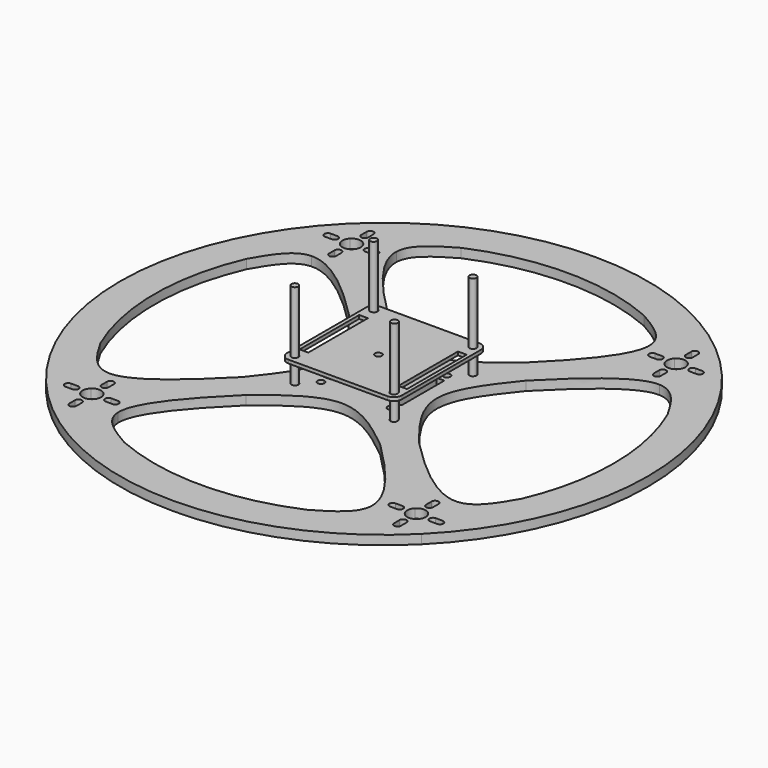
from build123d import *

# Parameters (mm, degrees)
F1_R     = 1.5
F2_DEPTH = 1.5
F4_R     = 1.5
F5_DEPTH = 41.5
F6_DEPTH = 4


with BuildPart() as f2:
    # F1 (on Top) → F2 (new body)
    with BuildSketch(Plane.XY):
        with BuildLine():
            Line((21.5300569844, 24.9755739439), (-21.5408730156, 24.9755739439))
            ThreePointArc((-21.5408730156, 24.9755739439), (-23.9906692077, 23.9608351361), (-25.0054080156, 21.5110389439))
            Line((-25.0054080156, 21.5110389439), (-25.0054080156, -21.5598910561))
            ThreePointArc((-25.0054080156, -21.5598910561), (-23.9906692077, -24.0096872482), (-21.5408730156, -25.0244260561))
            Line((-21.5408730156, -25.0244260561), (21.5300569844, -25.0244260561))
            ThreePointArc((21.5300569844, -25.0244260561), (23.9798531766, -24.0096872482), (24.9945919844, -21.5598910561))
            Line((24.9945919844, -21.5598910561), (24.9945919844, 21.5110389439))
            ThreePointArc((24.9945919844, 21.5110389439), (23.9798531766, 23.9608351361), (21.5300569844, 24.9755739439))
        make_face()
        with BuildLine():
            ThreePointArc((-21.5408730156, 20.0110389439), (-22.6015331873, 22.5716991157), (-20.0408730156, 21.5110389439))
            Line((-20.0408730156, 21.5110389439), (20.0300569844, 21.5110389439))
            ThreePointArc((20.0300569844, 21.5110389439), (21.5300569844, 23.0110389439), (23.0300569844, 21.5110389439))
            ThreePointArc((23.0300569844, 21.5110389439), (22.5907171562, 20.4503787721), (21.5300569844, 20.0110389439))
            Line((21.5300569844, 20.0110389439), (21.5300569844, 15.6918243156))
            Line((21.5300569844, 15.6918243156), (23.4506830457, 15.6918243156))
            Line((23.4506830457, 15.6918243156), (23.4506830457, -16.7748629464))
            Line((23.4506830457, -16.7748629464), (21.5300569844, -16.7748629464))
            Line((21.5300569844, -16.7748629464), (21.5300569844, -20.0598910561))
            ThreePointArc((21.5300569844, -20.0598910561), (22.5907171562, -20.4992308843), (23.0300569844, -21.5598910561))
            ThreePointArc((23.0300569844, -21.5598910561), (21.5300569844, -23.0598910561), (20.0300569844, -21.5598910561))
            Line((20.0300569844, -21.5598910561), (-20.0408730156, -21.5598910561))
            ThreePointArc((-20.0408730156, -21.5598910561), (-22.6015331873, -22.6205512279), (-21.5408730156, -20.0598910561))
            Line((-21.5408730156, -20.0598910561), (-21.5408730156, -16.7748629464))
            Line((-21.5408730156, -16.7748629464), (-23.3591597644, -16.7748629464))
            Line((-23.3591597644, -16.7748629464), (-23.3591597644, 15.6918243156))
            Line((-23.3591597644, 15.6918243156), (-21.5408730156, 15.6918243156))
            Line((-21.5408730156, 15.6918243156), (-21.5408730156, 20.0110389439))
        make_face(mode=Mode.SUBTRACT)
        with BuildLine():
            Line((20.0300569844, 21.5110389439), (-20.0408730156, 21.5110389439))
            ThreePointArc((-20.0408730156, 21.5110389439), (-20.4802128438, 20.4503787721), (-21.5408730156, 20.0110389439))
            Line((-21.5408730156, 20.0110389439), (-21.5408730156, 15.6918243156))
            Line((-21.5408730156, 15.6918243156), (-19.5787929115, 15.6918243156))
            Line((-19.5787929115, 15.6918243156), (-19.5787929115, -16.7748629464))
            Line((-19.5787929115, -16.7748629464), (-21.5408730156, -16.7748629464))
            Line((-21.5408730156, -16.7748629464), (-21.5408730156, -20.0598910561))
            ThreePointArc((-21.5408730156, -20.0598910561), (-20.4802128438, -20.4992308843), (-20.0408730156, -21.5598910561))
            Line((-20.0408730156, -21.5598910561), (20.0300569844, -21.5598910561))
            ThreePointArc((20.0300569844, -21.5598910561), (20.4693968127, -20.4992308843), (21.5300569844, -20.0598910561))
            Line((21.5300569844, -20.0598910561), (21.5300569844, -16.7748629464))
            Line((21.5300569844, -16.7748629464), (19.6703161928, -16.7748629464))
            Line((19.6703161928, -16.7748629464), (19.6703161928, 15.6918243156))
            Line((19.6703161928, 15.6918243156), (21.5300569844, 15.6918243156))
            Line((21.5300569844, 15.6918243156), (21.5300569844, 20.0110389439))
            ThreePointArc((21.5300569844, 20.0110389439), (20.4693968127, 20.4503787721), (20.0300569844, 21.5110389439))
        make_face()
        with Locations((0, -3.0244260561)):
            Circle(F1_R, mode=Mode.SUBTRACT)
    extrude(amount=F2_DEPTH)


with BuildPart() as f2_1:
    # F3: moved
    add(f2.part.moved(Location((0, 0, 13))))


with BuildPart() as f5:
    # F4 (on Top) → F5 (new body)
    with BuildSketch(Plane.XY):
        with Locations((-21.735932678, 21.4739814401)):
            Circle(F4_R)
    extrude(amount=F5_DEPTH)


with BuildPart() as f5b:
    # F4 (on Top) → F5, piece 2 (new body)
    with BuildSketch(Plane.XY):
        with Locations((-21.735932678, -21.3912688196)):
            Circle(F4_R)
    extrude(amount=F5_DEPTH)


with BuildPart() as f5c:
    # F4 (on Top) → F5, piece 3 (new body)
    with BuildSketch(Plane.XY):
        with Locations((21.416042, -21.1045444012)):
            Circle(F4_R)
    extrude(amount=F5_DEPTH)


with BuildPart() as f5d:
    # F4 (on Top) → F5, piece 4 (new body)
    with BuildSketch(Plane.XY):
        with Locations((21.5594042093, 21.4739814401)):
            Circle(F4_R)
    extrude(amount=F5_DEPTH)


with BuildPart() as f6:
    # F0 (on Top) → F6 (new body)
    with BuildSketch(Plane.XY):
        with BuildLine():
            Line((-73.5380386095, 73.5380386095), (-81.3172798365, 81.3172798365))
            ThreePointArc((-81.3172798365, 81.3172798365), (-114.9999980619, -0.0211130356), (-81.2874160139, -81.3471326955))
            Line((-81.2874160139, -81.3471326955), (-73.5099722747, -73.5690948579))
            ThreePointArc((-73.5099722747, -73.5690948579), (-74.6812907728, -70.7012137687), (-73.4535440893, -67.8570325075))
            ThreePointArc((-73.4535440893, -67.8570325075), (-74.6303136147, -66.5606211642), (-75.7842054497, -65.2438058696))
            ThreePointArc((-75.7842054497, -65.2438058696), (-84.7133535769, -53.1380064149), (-91.7256073742, -39.8297997965))
            ThreePointArc((-91.7256073742, -39.8297997965), (-99.9999978313, -0.020826594), (-91.7421897981, 39.7915897024))
            ThreePointArc((-91.7421897981, 39.7915897024), (-84.7354799013, 53.1027159935), (-75.811375, 65.2122336729))
            ThreePointArc((-75.811375, 65.2122336729), (-74.6582647851, 66.5292679899), (-73.482277467, 67.8259161255))
            ThreePointArc((-73.482277467, 67.8259161255), (-74.7097193284, 70.6702673756), (-73.5380386095, 73.5380386095))
        make_face()
        with BuildLine():
            ThreePointArc((-80.9829469495, -72.2427877299), (-82.4829469495, -70.7427877299), (-80.9829469495, -69.2427877299))
            Line((-80.9829469495, -69.2427877299), (-77.9829469495, -69.2427877299))
            ThreePointArc((-77.9829469495, -69.2427877299), (-76.4829469495, -70.7427877299), (-77.9829469495, -72.2427877299))
            Line((-77.9829469495, -72.2427877299), (-80.9829469495, -72.2427877299))
        make_face(mode=Mode.SUBTRACT)
        with BuildLine():
            ThreePointArc((-81.0113709144, 69.2072523125), (-82.5113709144, 70.7072523125), (-81.0113709144, 72.2072523125))
            Line((-81.0113709144, 72.2072523125), (-78.0113709144, 72.2072523125))
            ThreePointArc((-78.0113709144, 72.2072523125), (-76.5113709144, 70.7072523125), (-78.0113709144, 69.2072523125))
            Line((-78.0113709144, 69.2072523125), (-81.0113709144, 69.2072523125))
        make_face(mode=Mode.SUBTRACT)
        with BuildLine():
            ThreePointArc((-81.2874160139, -81.3471326955), (0.0211130356, -114.9999980619), (81.3172798365, -81.3172798365))
            Line((81.3172798365, -81.3172798365), (73.5391085036, -73.5391085036))
            ThreePointArc((73.5391085036, -73.5391085036), (70.6706770747, -74.7104813308), (67.8262482612, -73.4819708963))
            ThreePointArc((67.8262482612, -73.4819708963), (66.5294367156, -74.6581144304), (65.2122336729, -75.811375))
            ThreePointArc((65.2122336729, -75.811375), (53.1027159935, -84.7354799013), (39.7915897024, -91.7421897981))
            ThreePointArc((39.7915897024, -91.7421897981), (0.020826594, -99.9999978313), (-39.7533727045, -91.7587563049))
            ThreePointArc((-39.7533727045, -91.7587563049), (-53.0674163588, -84.7575915243), (-65.1806501618, -75.8385313972))
            ThreePointArc((-65.1806501618, -75.8385313972), (-66.4982498025, -74.6858940711), (-67.7954701129, -73.510368195))
            ThreePointArc((-67.7954701129, -73.510368195), (-70.6403810026, -74.7405157379), (-73.5099722747, -73.5690948579))
            Line((-73.5099722747, -73.5690948579), (-81.2874160139, -81.3471326955))
        make_face()
        with BuildLine():
            ThreePointArc((-72.2336163259, -77.9907269454), (-70.7336163259, -76.4907269454), (-69.2336163259, -77.9907269454))
            Line((-69.2336163259, -77.9907269454), (-69.2336163259, -80.9907269454))
            ThreePointArc((-69.2336163259, -80.9907269454), (-70.7336163259, -82.4907269454), (-72.2336163259, -80.9907269454))
            Line((-72.2336163259, -80.9907269454), (-72.2336163259, -77.9907269454))
        make_face(mode=Mode.SUBTRACT)
        with BuildLine():
            ThreePointArc((69.1585509919, -77.9606813788), (70.6585509919, -76.4606813788), (72.1585509919, -77.9606813788))
            Line((72.1585509919, -77.9606813788), (72.1585509919, -80.9606813788))
            ThreePointArc((72.1585509919, -80.9606813788), (70.6585509919, -82.4606813788), (69.1585509919, -80.9606813788))
            Line((69.1585509919, -80.9606813788), (69.1585509919, -77.9606813788))
        make_face(mode=Mode.SUBTRACT)
        with BuildLine():
            ThreePointArc((-66.681485939, -70.7407269454), (-66.9704171371, -72.2333649953), (-67.7954701129, -73.510368195))
            ThreePointArc((-67.7954701129, -73.510368195), (-66.4982498025, -74.6858940711), (-65.1806501618, -75.8385313972))
            Line((-65.1806501618, -75.8385313972), (-55.1806501618, -75.8385313972))
            add(Edge.make_bspline(
                [(-29.1917316603, -38.6195120691), (-44.1858001594, -53.3963002155), (-55.5362330754, -66.8088616171), (-55.1806501618, -75.8385313972)],
                knots=[0.2016445689, 0.2016445689, 0.2016445689, 0.2016445689, 0.6478294718, 0.6478294718, 0.6478294718, 0.6478294718], degree=3))
            add(Edge.make_bspline(
                [(-7.3745398994, -18.0280054786), (-14.8949972992, -24.9847181031), (-22.4154546991, -31.9414307276), (-29.1917316603, -38.6195120691)],
                knots=[0, 0, 0, 0, 0.2016445689, 0.2016445689, 0.2016445689, 0.2016445689], degree=3))
            Line((-7.3745398994, -18.0280054786), (-17.9739348065, -18.0288151384))
            Line((-17.9739348065, -18.0288151384), (-20.448714018, -20.5037833917))
            ThreePointArc((-20.448714018, -20.5037833917), (-20.1235253431, -20.9904324595), (-20.00933368, -21.5644840717))
            ThreePointArc((-20.00933368, -21.5644840717), (-20.9352820678, -22.9502924085), (-22.569953342, -22.6251847517))
            Line((-22.569953342, -22.6251847517), (-67.8533340871, -67.9120245746))
            ThreePointArc((-67.8533340871, -67.9120245746), (-66.986042298, -69.2098133959), (-66.681485939, -70.7407269454))
        make_face()
        with BuildLine():
            ThreePointArc((-60.4833735505, -69.2389259747), (-58.9833735505, -70.7389259747), (-60.4833735505, -72.2389259747))
            Line((-60.4833735505, -72.2389259747), (-63.4833735505, -72.2389259747))
            ThreePointArc((-63.4833735505, -72.2389259747), (-64.9833735505, -70.7389259747), (-63.4833735505, -69.2389259747))
            Line((-63.4833735505, -69.2389259747), (-60.4833735505, -69.2389259747))
        make_face(mode=Mode.SUBTRACT)
        with BuildLine():
            ThreePointArc((-75.7842054497, -65.2438058696), (-74.6303136147, -66.5606211642), (-73.4535440893, -67.8570325075))
            ThreePointArc((-73.4535440893, -67.8570325075), (-70.6422092576, -66.7409197823), (-67.8533340871, -67.9120245746))
            Line((-67.8533340871, -67.9120245746), (-22.569953342, -22.6251847517))
            ThreePointArc((-22.569953342, -22.6251847517), (-22.57003436, -20.5038644096), (-20.448714018, -20.5037833917))
            Line((-20.448714018, -20.5037833917), (-17.9739348065, -18.0288151384))
            Line((-17.9739348065, -18.0288151384), (-17.9739348065, -7.4291192524))
            add(Edge.make_bspline(
                [(-17.9739348065, -7.4291192524), (-24.9298205236, -14.9502384584), (-31.8857062407, -22.4713576644), (-38.5632705458, -29.2483597025)],
                knots=[0, 0, 0, 0, 0.2016505983, 0.2016505983, 0.2016505983, 0.2016505983], degree=3))
            add(Edge.make_bspline(
                [(-38.5632705458, -29.2483597025), (-53.3375186705, -44.2426158532), (-66.7493147094, -55.5942345946), (-75.7842054497, -55.2438058696)],
                knots=[0.2016505983, 0.2016505983, 0.2016505983, 0.2016505983, 0.6478066872, 0.6478066872, 0.6478066872, 0.6478066872], degree=3))
            Line((-75.7842054497, -55.2438058696), (-75.7842054497, -65.2438058696))
        make_face()
        with BuildLine():
            ThreePointArc((-72.2654459052, -60.4908142202), (-70.7654459052, -58.9908142202), (-69.2654459052, -60.4908142202))
            Line((-69.2654459052, -60.4908142202), (-69.2654459052, -63.4908142202))
            ThreePointArc((-69.2654459052, -63.4908142202), (-70.7654459052, -64.9908142202), (-72.2654459052, -63.4908142202))
            Line((-72.2654459052, -63.4908142202), (-72.2654459052, -60.4908142202))
        make_face(mode=Mode.SUBTRACT)
        with BuildLine():
            ThreePointArc((-91.7256073742, -39.8297997965), (-84.7133535769, -53.1380064149), (-75.7842054497, -65.2438058696))
            Line((-75.7842054497, -65.2438058696), (-75.7842054497, -55.2438058696))
            add(Edge.make_bspline(
                [(-75.7842054497, -55.2438058696), (-82.9163015477, -54.9671792436), (-87.320954461, -47.3984895201), (-91.7256073742, -39.8297997965)],
                knots=[0.6478066872, 0.6478066872, 0.6478066872, 0.6478066872, 1, 1, 1, 1], degree=3))
        make_face()
        with BuildLine():
            Line((-55.1806501618, -75.8385313972), (-65.1806501618, -75.8385313972))
            ThreePointArc((-65.1806501618, -75.8385313972), (-53.0674163588, -84.7575915243), (-39.7533727045, -91.7587563049))
            add(Edge.make_bspline(
                [(-55.1806501618, -75.8385313972), (-54.8999911307, -82.9655846772), (-47.3266819176, -87.362170491), (-39.7533727045, -91.7587563049)],
                knots=[0.6478294718, 0.6478294718, 0.6478294718, 0.6478294718, 1, 1, 1, 1], degree=3))
        make_face()
        with BuildLine():
            ThreePointArc((39.7915897024, -91.7421897981), (53.1027159935, -84.7354799013), (65.2122336729, -75.811375))
            Line((65.2122336728, -75.811375), (55.2122336728, -75.811375))
            add(Edge.make_bspline(
                [(55.2122336728, -75.811375), (54.9334442766, -82.9404800516), (47.3625169895, -87.3413349249), (39.7915897024, -91.7421897981)],
                knots=[0.6477626221, 0.6477626221, 0.6477626221, 0.6477626221, 1, 1, 1, 1], degree=3))
        make_face()
        with BuildLine():
            ThreePointArc((65.2122336729, -75.811375), (66.5294367156, -74.6581144304), (67.8262482612, -73.4819708963))
            ThreePointArc((67.8262482612, -73.4819708963), (66.7108814269, -70.6706770747), (67.8822542541, -67.8822542541))
            Line((67.8822542541, -67.8822542541), (22.6222592712, -22.6222592712))
            ThreePointArc((22.6222592712, -22.6222592712), (20.5009389276, -22.6222592712), (20.5009389276, -20.5009389276))
            Line((20.5009389276, -20.5009389276), (18.0260651935, -18.0260651935))
            Line((18.0260651935, -18.0260651935), (7.4277334448, -18.026874772))
            add(Edge.make_bspline(
                [(7.4277334448, -18.026874772), (14.8676773062, -24.9087014307), (22.3076211676, -31.7905280893), (29.0263760711, -38.4025321071)],
                knots=[0, 0, 0, 0, 0.1995692629, 0.1995692629, 0.1995692629, 0.1995692629], degree=3))
            add(Edge.make_bspline(
                [(29.0263760711, -38.4025321071), (44.1153796925, -53.2517942104), (55.5669704607, -66.7401697789), (55.2122336728, -75.811375)],
                knots=[0.1995692629, 0.1995692629, 0.1995692629, 0.1995692629, 0.6477626221, 0.6477626221, 0.6477626221, 0.6477626221], degree=3))
            Line((55.2122336728, -75.811375), (65.2122336728, -75.811375))
        make_face()
        with BuildLine():
            ThreePointArc((60.4092203684, -72.2127421634), (58.9092203684, -70.7127421634), (60.4092203684, -69.2127421634))
            Line((60.4092203684, -69.2127421634), (63.4092203684, -69.2127421634))
            ThreePointArc((63.4092203684, -69.2127421634), (64.9092203684, -70.7127421634), (63.4092203684, -72.2127421634))
            Line((63.4092203684, -72.2127421634), (60.4092203684, -72.2127421634))
        make_face(mode=Mode.SUBTRACT)
        with BuildLine():
            ThreePointArc((67.8822542541, -67.8822542541), (70.6706770747, -66.7108814269), (73.4819708963, -67.8262482612))
            ThreePointArc((73.4819708963, -67.8262482612), (74.6581144304, -66.5294367156), (75.811375, -65.2122336729))
            Line((75.811375, -65.2122336728), (75.811375, -55.2122336728))
            add(Edge.make_bspline(
                [(38.6172284298, -29.2444396866), (53.38178712, -44.2255947675), (66.7839215809, -55.5652530021), (75.811375, -55.2122336728)],
                knots=[0.2017358169, 0.2017358169, 0.2017358169, 0.2017358169, 0.6477643563, 0.6477643563, 0.6477643563, 0.6477643563], degree=3))
            add(Edge.make_bspline(
                [(18.0260651935, -7.4269238662), (24.9826897197, -14.9477421128), (31.939314246, -22.4685603594), (38.6172284298, -29.2444396866)],
                knots=[0, 0, 0, 0, 0.2017358169, 0.2017358169, 0.2017358169, 0.2017358169], degree=3))
            Line((18.0260651935, -7.4269238662), (18.0260651935, -18.0260651935))
            Line((18.0260651935, -18.0260651935), (20.5009389276, -20.5009389276))
            ThreePointArc((20.5009389276, -20.5009389276), (22.1356242479, -20.1757798006), (23.0615990994, -21.5615990994))
            ThreePointArc((23.0615990994, -21.5615990994), (22.9474183982, -22.1356242479), (22.6222592712, -22.6222592712))
            Line((22.6222592712, -22.6222592712), (67.8822542541, -67.8822542541))
        make_face()
        with BuildLine():
            ThreePointArc((69.1267214126, -60.4607686536), (70.6267214126, -58.9607686536), (72.1267214126, -60.4607686536))
            Line((72.1267214126, -60.4607686536), (72.1267214126, -63.4607686536))
            ThreePointArc((72.1267214126, -63.4607686536), (70.6267214126, -64.9607686536), (69.1267214126, -63.4607686536))
            Line((69.1267214126, -63.4607686536), (69.1267214126, -60.4607686536))
        make_face(mode=Mode.SUBTRACT)
        with BuildLine():
            ThreePointArc((81.3172798365, -81.3172798365), (106.2461462388, -44.008594722), (115, 0))
            ThreePointArc((115, 0), (106.2525439387, 43.9931461316), (81.3409233642, 81.2936294322))
            Line((81.3409233642, 81.2936294322), (73.5630451831, 73.5151571195))
            ThreePointArc((73.5630451831, 73.5151571195), (74.4302139021, 72.2174267856), (74.734724603, 70.6866234541))
            ThreePointArc((74.734724603, 70.6866234541), (74.4144831844, 69.1183834271), (73.5050362119, 67.8012511056))
            ThreePointArc((73.5050362119, 67.8012511056), (74.6807392627, 66.5040388486), (75.8335523883, 65.1864428556))
            ThreePointArc((75.8335523883, 65.1864428556), (84.753537752, 53.0738903655), (91.7557194979, 39.76038153))
            ThreePointArc((91.7557194979, 39.76038153), (97.9172404375, 20.3030545757), (100, 0))
            ThreePointArc((100, 0), (97.9137860054, -20.3197074313), (91.7421897981, -39.7915897024))
            ThreePointArc((91.7421897981, -39.7915897024), (84.7354799013, -53.1027159935), (75.811375, -65.2122336729))
            ThreePointArc((75.811375, -65.2122336729), (74.6581144304, -66.5294367156), (73.4819708963, -67.8262482612))
            ThreePointArc((73.4819708963, -67.8262482612), (74.3907057042, -69.1430650466), (74.7106813788, -70.7106813788))
            ThreePointArc((74.7106813788, -70.7106813788), (74.4061995089, -72.2414151083), (73.5391085036, -73.5391085036))
            Line((73.5391085036, -73.5391085036), (81.3172798365, -81.3172798365))
        make_face()
        with BuildLine():
            ThreePointArc((80.9087937673, -69.2088804081), (82.4087937673, -70.7088804081), (80.9087937673, -72.2088804081))
            Line((80.9087937673, -72.2088804081), (77.9087937673, -72.2088804081))
            ThreePointArc((77.9087937673, -72.2088804081), (76.4087937673, -70.7088804081), (77.9087937673, -69.2088804081))
            Line((77.9087937673, -69.2088804081), (80.9087937673, -69.2088804081))
        make_face(mode=Mode.SUBTRACT)
        with BuildLine():
            ThreePointArc((80.9328369915, 72.1884244248), (82.4328369915, 70.6884244248), (80.9328369915, 69.1884244248))
            Line((80.9328369915, 69.1884244248), (77.9328369915, 69.1884244248))
            ThreePointArc((77.9328369915, 69.1884244248), (76.4328369915, 70.6884244248), (77.9328369915, 72.1884244248))
            Line((77.9328369915, 72.1884244248), (80.9328369915, 72.1884244248))
        make_face(mode=Mode.SUBTRACT)
        with BuildLine():
            Line((75.811375, -55.2122336728), (75.811375, -65.2122336728))
            ThreePointArc((75.811375, -65.2122336729), (84.7354799013, -53.1027159935), (91.7421897981, -39.7915897024))
            add(Edge.make_bspline(
                [(75.811375, -55.2122336728), (82.9404947445, -54.9334488424), (87.3413422713, -47.3625192724), (91.7421897981, -39.7915897024)],
                knots=[0.6477643563, 0.6477643563, 0.6477643563, 0.6477643563, 1, 1, 1, 1], degree=3))
        make_face()
        with BuildLine():
            add(Edge.make_bspline(
                [(38.6172284298, -29.2444396866), (30.8199826883, -19.4937251516), (15.2308646181, 0.0009842872), (30.8225433794, 19.4648992856), (38.6156956124, 29.1935022765)],
                knots=[0, 0, 0, 0, 0.500172345, 1, 1, 1, 1], degree=3))
            add(Edge.make_bspline(
                [(18.0260651935, 7.3745398994), (24.982126464, 14.8955860583), (31.9381877346, 22.4166322172), (38.6156956124, 29.1935022765)],
                knots=[0, 0, 0, 0, 0.2016409649, 0.2016409649, 0.2016409649, 0.2016409649], degree=3))
            Line((18.0260651935, 7.3745398994), (18.0260651935, -7.4269238662))
            add(Edge.make_bspline(
                [(18.0260651935, -7.4269238662), (24.9826897197, -14.9477421128), (31.939314246, -22.4685603594), (38.6172284298, -29.2444396866)],
                knots=[0, 0, 0, 0, 0.2017358169, 0.2017358169, 0.2017358169, 0.2017358169], degree=3))
        make_face()
        with BuildLine():
            ThreePointArc((75.8335523883, 65.1864428556), (74.6807392627, 66.5040388486), (73.5050362119, 67.8012511056))
            ThreePointArc((73.5050362119, 67.8012511056), (70.6941198121, 66.686829553), (67.9064069855, 67.8580868263))
            Line((67.9064069855, 67.8580868263), (22.6220837289, 22.5703044198))
            ThreePointArc((22.6220837289, 22.5703044198), (22.9472724038, 22.083655352), (23.0614640669, 21.5096037398))
            ThreePointArc((23.0614640669, 21.5096037398), (22.1355156791, 20.1237954029), (20.5008444049, 20.4489030598))
            Line((20.5008444049, 20.4489030598), (18.0260651935, 17.9739348065))
            Line((18.0260651935, 17.9739348065), (18.0260651935, 7.3745398994))
            add(Edge.make_bspline(
                [(18.0260651935, 7.3745398994), (24.982126464, 14.8955860583), (31.9381877346, 22.4166322172), (38.6156956124, 29.1935022765)],
                knots=[0, 0, 0, 0, 0.2016409649, 0.2016409649, 0.2016409649, 0.2016409649], degree=3))
            add(Edge.make_bspline(
                [(38.6156956124, 29.1935022765), (53.3915727837, 44.1892464126), (66.8035384932, 55.5411996709), (75.8335523883, 55.1864428556)],
                knots=[0.2016409649, 0.2016409649, 0.2016409649, 0.2016409649, 0.647828702, 0.647828702, 0.647828702, 0.647828702], degree=3))
            Line((75.8335523883, 55.1864428556), (75.8335523883, 65.1864428556))
        make_face()
        with BuildLine():
            ThreePointArc((69.1825942161, 63.4366234541), (70.6825942161, 64.9366234541), (72.1825942161, 63.4366234541))
            Line((72.1825942161, 63.4366234541), (72.1825942161, 60.4366234541))
            ThreePointArc((72.1825942161, 60.4366234541), (70.6825942161, 58.9366234541), (69.1825942161, 60.4366234541))
            Line((69.1825942161, 60.4366234541), (69.1825942161, 63.4366234541))
        make_face(mode=Mode.SUBTRACT)
        with BuildLine():
            ThreePointArc((67.9064069855, 67.8580868263), (66.7349186449, 70.6472242452), (67.8512374347, 73.4588972051))
            ThreePointArc((67.8512374347, 73.4588972051), (66.5548268168, 74.635481022), (65.2380169449, 75.7891888404))
            Line((65.2380169449, 75.7891888404), (55.2380169449, 75.7891888404))
            add(Edge.make_bspline(
                [(29.2447030763, 38.5650892194), (44.2382917464, 53.3410975178), (55.589271152, 66.7542676732), (55.2380169449, 75.7891888404)],
                knots=[0.2016473686, 0.2016473686, 0.2016473686, 0.2016473686, 0.6478116218, 0.6478116218, 0.6478116218, 0.6478116218], degree=3))
            add(Edge.make_bspline(
                [(7.4271789284, 17.9739348065), (14.9477070949, 24.9304466674), (22.4682352614, 31.8869585282), (29.2447030763, 38.5650892194)],
                knots=[0, 0, 0, 0, 0.2016473686, 0.2016473686, 0.2016473686, 0.2016473686], degree=3))
            Line((7.4271789284, 17.9739348065), (18.0260651935, 17.9739348065))
            Line((18.0260651935, 17.9739348065), (20.5008444049, 20.4489030598))
            ThreePointArc((20.5008444049, 20.4489030598), (20.5007633869, 22.5702234018), (22.6220837289, 22.5703044198))
            Line((22.6220837289, 22.5703044198), (67.9064069855, 67.8580868263))
        make_face()
        with BuildLine():
            ThreePointArc((60.4332635925, 69.1845626696), (58.9332635925, 70.6845626696), (60.4332635925, 72.1845626696))
            Line((60.4332635925, 72.1845626696), (63.4332635925, 72.1845626696))
            ThreePointArc((63.4332635925, 72.1845626696), (64.9332635925, 70.6845626696), (63.4332635925, 69.1845626696))
            Line((63.4332635925, 69.1845626696), (60.4332635925, 69.1845626696))
        make_face(mode=Mode.SUBTRACT)
        with BuildLine():
            add(Edge.make_bspline(
                [(7.4271789284, 17.9739348065), (14.9477070949, 24.9304466674), (22.4682352614, 31.8869585282), (29.2447030763, 38.5650892194)],
                knots=[0, 0, 0, 0, 0.2016473686, 0.2016473686, 0.2016473686, 0.2016473686], degree=3))
            add(Edge.make_bspline(
                [(-29.1937638476, 38.5635567572), (-19.4650737581, 30.7704088345), (-0.0009843241, 15.1787385539), (19.4939006528, 30.7678478134), (29.2447030763, 38.5650892194)],
                knots=[0, 0, 0, 0, 0.4998276504, 1, 1, 1, 1], degree=3))
            add(Edge.make_bspline(
                [(-7.3747934793, 17.9739348065), (-14.8955498305, 24.9298836034), (-22.4163061817, 31.8858324002), (-29.1937638476, 38.5635567572)],
                knots=[0, 0, 0, 0, 0.2015525764, 0.2015525764, 0.2015525764, 0.2015525764], degree=3))
            Line((-7.3747934793, 17.9739348065), (7.4271789284, 17.9739348065))
        make_face()
        with BuildLine():
            Line((16.3354400222, 16.2831804929), (18.0260651935, 17.9739348065))
            Line((18.0260651935, 17.9739348065), (7.4271789284, 17.9739348065))
            Line((7.4271789284, 17.9739348065), (-7.3747934793, 17.9739348065))
            Line((-7.3747934793, 17.9739348065), (-17.9739348065, 17.9739348065))
            Line((-17.9739348065, 17.9739348065), (-16.3380259976, 16.3380259976))
            ThreePointArc((-16.3380259976, 16.3380259976), (-14.7033406772, 16.6631851245), (-13.7773658258, 15.2773658258))
            Line((-13.7773658258, 15.2773658258), (13.7226341742, 15.2773658258))
            ThreePointArc((13.7226341742, 15.2773658258), (14.6837505003, 16.6772245279), (16.3354400222, 16.2831804929))
        make_face()
        with BuildLine():
            ThreePointArc((14.2169045111, 14.1644831524), (13.8517595456, 14.6685121877), (13.7226341742, 15.2773658258))
            Line((13.7226341742, 15.2773658258), (-13.7773658258, 15.2773658258))
            ThreePointArc((-13.7773658258, 15.2773658258), (-13.891546527, 14.7033406772), (-14.216705654, 14.216705654))
            Line((-14.216705654, 14.216705654), (0.0267526534, -0.0267526534))
            Line((0.0267526534, -0.0267526534), (14.2169045111, 14.1644831524))
        make_face()
        with BuildLine():
            Line((-13.7773658258, -15.2226341742), (13.7226341742, -15.2226341742))
            ThreePointArc((13.7226341742, -15.2226341742), (13.8368148755, -14.6486090257), (14.1619740024, -14.1619740024))
            Line((14.1619740024, -14.1619740024), (0.0267526534, -0.0267526534))
            Line((0.0267526534, -0.0267526534), (-14.163454581, -14.2180438404))
            ThreePointArc((-14.163454581, -14.2180438404), (-13.8772110366, -14.6845202769), (-13.7773658258, -15.2226341742))
        make_face()
        with BuildLine():
            ThreePointArc((15.2226341742, 13.7773658258), (14.6838039644, 13.8774865435), (14.2169045111, 14.1644831524))
            Line((14.2169045111, 14.1644831524), (0.0267526534, -0.0267526534))
            Line((0.0267526534, -0.0267526534), (14.1619740024, -14.1619740024))
            ThreePointArc((14.1619740024, -14.1619740024), (14.6486090257, -13.8368148755), (15.2226341742, -13.7226341742))
            Line((15.2226341742, -13.7226341742), (15.2226341742, -11.6125540808))
            Line((15.2226341742, -11.6125540808), (15.2226341742, -11.4907081751))
            Line((15.2226341742, -11.4907081751), (13.3657921265, -11.4907081751))
            Line((13.3657921265, -11.4907081751), (13.3657921265, 11.7591595498))
            Line((13.3657921265, 11.7591595498), (15.2226341742, 11.7591595498))
            Line((15.2226341742, 11.7591595498), (15.2226341742, 13.7773658258))
        make_face()
        with BuildLine():
            Line((7.4277334448, -18.026874772), (18.0260651935, -18.0260651935))
            Line((18.0260651935, -18.0260651935), (16.283294346, -16.283294346))
            ThreePointArc((16.283294346, -16.283294346), (14.6486090257, -16.608453473), (13.7226341742, -15.2226341742))
            Line((13.7226341742, -15.2226341742), (-13.7773658258, -15.2226341742))
            ThreePointArc((-13.7773658258, -15.2226341742), (-14.6677585211, -16.5931738249), (-16.2818710712, -16.3366221508))
            Line((-16.2818710712, -16.3366221508), (-17.9739348065, -18.0288151384))
            Line((-17.9739348065, -18.0288151384), (-7.3745398994, -18.0280054786))
            Line((-7.3745398994, -18.0280054786), (7.4277334448, -18.026874772))
        make_face()
        with BuildLine():
            Line((-16.3380259976, 16.3380259976), (-17.9739348065, 17.9739348065))
            Line((-17.9739348065, 17.9739348065), (-17.9739348065, 7.3747934793))
            Line((-17.9739348065, 7.3747934793), (-17.9739348065, -7.4291192524))
            Line((-17.9739348065, -7.4291192524), (-17.9739348065, -18.0288151384))
            Line((-17.9739348065, -18.0288151384), (-16.2818710712, -16.3366221508))
            ThreePointArc((-16.2818710712, -16.3366221508), (-16.6775411657, -14.6845737524), (-15.2773658258, -13.7226341742))
            Line((-15.2773658258, -13.7226341742), (-15.2773658258, -11.6822897743))
            Line((-15.2773658258, -11.6822897743), (-17.031823269, -11.6822897743))
            Line((-17.031823269, -11.6822897743), (-17.031823269, 11.5675779506))
            Line((-17.031823269, 11.5675779506), (-15.2773658258, 11.5675779506))
            Line((-15.2773658258, 11.5675779506), (-15.2773658258, 13.7773658258))
            ThreePointArc((-15.2773658258, 13.7773658258), (-16.6631851245, 14.7033406772), (-16.3380259976, 16.3380259976))
        make_face()
        with BuildLine():
            ThreePointArc((-14.216705654, 14.216705654), (-14.7033406772, 13.891546527), (-15.2773658258, 13.7773658258))
            Line((-15.2773658258, 13.7773658258), (-15.2773658258, 11.5675779506))
            Line((-15.2773658258, 11.5675779506), (-15.2428047732, 11.5675779506))
            Line((-15.2428047732, 11.5675779506), (-13.5312965299, 11.5675779506))
            Line((-13.5312965299, 11.5675779506), (-13.5312965299, -11.6822897743))
            Line((-13.5312965299, -11.6822897743), (-15.2773658258, -11.6822897743))
            Line((-15.2773658258, -11.6822897743), (-15.2773658258, -13.7226341742))
            ThreePointArc((-15.2773658258, -13.7226341742), (-14.6678108655, -13.8520712423), (-14.163454581, -14.2180438404))
            Line((-14.163454581, -14.2180438404), (0.0267526534, -0.0267526534))
            Line((0.0267526534, -0.0267526534), (-14.216705654, 14.216705654))
        make_face()
        with BuildLine():
            add(Edge.make_bspline(
                [(-29.1917316603, -38.6195120691), (-19.4564760237, -30.8318737782), (-0.0224923592, -15.2858171591), (19.3555607554, -30.706621972), (29.0263760711, -38.4025321071)],
                knots=[0, 0, 0, 0, 0.500939787, 1, 1, 1, 1], degree=3))
            add(Edge.make_bspline(
                [(7.4277334448, -18.026874772), (14.8676773062, -24.9087014307), (22.3076211676, -31.7905280893), (29.0263760711, -38.4025321071)],
                knots=[0, 0, 0, 0, 0.1995692629, 0.1995692629, 0.1995692629, 0.1995692629], degree=3))
            Line((7.4277334448, -18.026874772), (-7.3745398994, -18.0280054786))
            add(Edge.make_bspline(
                [(-7.3745398994, -18.0280054786), (-14.8949972992, -24.9847181031), (-22.4154546991, -31.9414307276), (-29.1917316603, -38.6195120691)],
                knots=[0, 0, 0, 0, 0.2016445689, 0.2016445689, 0.2016445689, 0.2016445689], degree=3))
        make_face()
        with BuildLine():
            Line((18.0260651935, 7.3745398994), (18.0260651935, 17.9739348065))
            Line((18.0260651935, 17.9739348065), (16.3354400222, 16.2831804929))
            ThreePointArc((16.3354400222, 16.2831804929), (16.6224928764, 15.8162494997), (16.7226341742, 15.2773658258))
            ThreePointArc((16.7226341742, 15.2773658258), (16.283294346, 14.216705654), (15.2226341742, 13.7773658258))
            Line((15.2226341742, 13.7773658258), (15.2226341742, 11.7591595498))
            Line((15.2226341742, 11.7591595498), (16.8663188656, 11.7591595498))
            Line((16.8663188656, 11.7591595498), (16.8663188656, -11.4907081751))
            Line((16.8663188656, -11.4907081751), (15.2226341742, -11.4907081751))
            Line((15.2226341742, -11.4907081751), (15.2226341742, -11.6125540808))
            Line((15.2226341742, -11.6125540808), (15.2226341742, -13.7226341742))
            ThreePointArc((15.2226341742, -13.7226341742), (16.283294346, -14.1619740024), (16.7226341742, -15.2226341742))
            ThreePointArc((16.7226341742, -15.2226341742), (16.608453473, -15.7966593228), (16.283294346, -16.283294346))
            Line((16.283294346, -16.283294346), (18.0260651935, -18.0260651935))
            Line((18.0260651935, -18.0260651935), (18.0260651935, -7.4269238662))
            Line((18.0260651935, -7.4269238662), (18.0260651935, 7.3745398994))
        make_face()
        with BuildLine():
            add(Edge.make_bspline(
                [(-17.9739348065, 7.3747934793), (-24.9298836034, 14.8955498305), (-31.8858324002, 22.4163061817), (-38.5635567572, 29.1937638476)],
                knots=[0, 0, 0, 0, 0.2015525764, 0.2015525764, 0.2015525764, 0.2015525764], degree=3))
            add(Edge.make_bspline(
                [(-38.5635567572, 29.1937638476), (-30.7687545031, 19.4533529829), (-15.1791953844, -0.0274120279), (-30.7685939549, -19.5080627171), (-38.5632705458, -29.2483597025)],
                knots=[0, 0, 0, 0, 0.5000014558, 1, 1, 1, 1], degree=3))
            add(Edge.make_bspline(
                [(-17.9739348065, -7.4291192524), (-24.9298205236, -14.9502384584), (-31.8857062407, -22.4713576644), (-38.5632705458, -29.2483597025)],
                knots=[0, 0, 0, 0, 0.2016505983, 0.2016505983, 0.2016505983, 0.2016505983], degree=3))
            Line((-17.9739348065, -7.4291192524), (-17.9739348065, 7.3747934793))
        make_face()
        with BuildLine():
            ThreePointArc((-67.8811843915, 67.8811843915), (-70.6704421966, 66.7095078142), (-73.482277467, 67.8259161255))
            ThreePointArc((-73.482277467, 67.8259161255), (-74.6582647851, 66.5292679899), (-75.811375, 65.2122336729))
            Line((-75.811375, 65.2122336728), (-75.811375, 55.2122336728))
            add(Edge.make_bspline(
                [(-38.5635567572, 29.1937638476), (-53.350887086, 44.2019462668), (-66.7738923772, 55.5652260049), (-75.811375, 55.2122336728)],
                knots=[0.2015525764, 0.2015525764, 0.2015525764, 0.2015525764, 0.6478759595, 0.6478759595, 0.6478759595, 0.6478759595], degree=3))
            add(Edge.make_bspline(
                [(-17.9739348065, 7.3747934793), (-24.9298836034, 14.8955498305), (-31.8858324002, 22.4163061817), (-38.5635567572, 29.1937638476)],
                knots=[0, 0, 0, 0, 0.2015525764, 0.2015525764, 0.2015525764, 0.2015525764], degree=3))
            Line((-17.9739348065, 7.3747934793), (-17.9739348065, 17.9739348065))
            Line((-17.9739348065, 17.9739348065), (-20.4488085407, 20.4488085407))
            ThreePointArc((-20.4488085407, 20.4488085407), (-22.5701288843, 20.4488085407), (-22.5701288843, 22.5701288843))
            Line((-22.5701288843, 22.5701288843), (-67.8811843915, 67.8811843915))
        make_face()
        with BuildLine():
            ThreePointArc((-72.2620402909, 63.459313097), (-70.7620402909, 64.959313097), (-69.2620402909, 63.459313097))
            Line((-69.2620402909, 63.459313097), (-69.2620402909, 60.459313097))
            ThreePointArc((-69.2620402909, 60.459313097), (-70.7620402909, 58.959313097), (-72.2620402909, 60.459313097))
            Line((-72.2620402909, 60.459313097), (-72.2620402909, 63.459313097))
        make_face(mode=Mode.SUBTRACT)
        with BuildLine():
            ThreePointArc((-65.2122336729, 75.811375), (-66.5295830566, 74.6579840226), (-67.826536332, 73.4817049965))
            ThreePointArc((-67.826536332, 73.4817049965), (-66.9995531632, 72.2037202892), (-66.709909904, 70.709313097))
            ThreePointArc((-66.709909904, 70.709313097), (-67.0143110316, 69.1787743111), (-67.8811843915, 67.8811843915))
            Line((-67.8811843915, 67.8811843915), (-22.5701288843, 22.5701288843))
            ThreePointArc((-22.5701288843, 22.5701288843), (-20.9354435639, 22.8952880112), (-20.0094687125, 21.5094687125))
            ThreePointArc((-20.0094687125, 21.5094687125), (-20.1236494137, 20.9354435639), (-20.4488085407, 20.4488085407))
            Line((-20.4488085407, 20.4488085407), (-17.9739348065, 17.9739348065))
            Line((-17.9739348065, 17.9739348065), (-7.3747934793, 17.9739348065))
            add(Edge.make_bspline(
                [(-7.3747934793, 17.9739348065), (-14.8955498305, 24.9298836034), (-22.4163061817, 31.8858324002), (-29.1937638476, 38.5635567572)],
                knots=[0, 0, 0, 0, 0.2015525764, 0.2015525764, 0.2015525764, 0.2015525764], degree=3))
            add(Edge.make_bspline(
                [(-29.1937638476, 38.5635567572), (-44.2019462668, 53.350887086), (-55.5652260049, 66.7738923772), (-55.2122336728, 75.811375)],
                knots=[0.2015525764, 0.2015525764, 0.2015525764, 0.2015525764, 0.6478759595, 0.6478759595, 0.6478759595, 0.6478759595], degree=3))
            Line((-55.2122336728, 75.811375), (-65.2122336728, 75.811375))
        make_face()
        with BuildLine():
            ThreePointArc((-60.5117975155, 72.2111140677), (-59.0117975155, 70.7111140677), (-60.5117975155, 69.2111140677))
            Line((-60.5117975155, 69.2111140677), (-63.5117975155, 69.2111140677))
            ThreePointArc((-63.5117975155, 69.2111140677), (-65.0117975155, 70.7111140677), (-63.5117975155, 72.2111140677))
            Line((-63.5117975155, 72.2111140677), (-60.5117975155, 72.2111140677))
        make_face(mode=Mode.SUBTRACT)
        with BuildLine():
            Line((-75.811375, 55.2122336728), (-75.811375, 65.2122336728))
            ThreePointArc((-75.811375, 65.2122336729), (-84.7354799013, 53.1027159935), (-91.7421897981, 39.7915897024))
            add(Edge.make_bspline(
                [(-75.811375, 55.2122336728), (-82.9414403678, 54.9337425811), (-87.341815083, 47.3626661417), (-91.7421897981, 39.7915897024)],
                knots=[0.6478759595, 0.6478759595, 0.6478759595, 0.6478759595, 1, 1, 1, 1], degree=3))
        make_face()
        with BuildLine():
            Line((73.5630451831, 73.5151571195), (81.3409233642, 81.2936294322))
            ThreePointArc((81.3409233642, 81.2936294322), (0.0167209302, 114.9999987844), (-81.3172798365, 81.3172798365))
            Line((-81.3172798365, 81.3172798365), (-73.5380386095, 73.5380386095))
            ThreePointArc((-73.5380386095, 73.5380386095), (-70.6704590763, 74.7091185463), (-67.826536332, 73.4817049965))
            ThreePointArc((-67.826536332, 73.4817049965), (-66.5295830566, 74.6579840226), (-65.2122336729, 75.811375))
            ThreePointArc((-65.2122336729, 75.811375), (-53.1027159935, 84.7354799013), (-39.7915897024, 91.7421897981))
            ThreePointArc((-39.7915897024, 91.7421897981), (0.0170073719, 99.9999985537), (39.8227932709, 91.7286494837))
            ThreePointArc((39.8227932709, 91.7286494837), (53.1315354775, 84.7174122468), (65.2380169449, 75.7891888404))
            ThreePointArc((65.2380169449, 75.7891888404), (66.5548268168, 74.635481022), (67.8512374347, 73.4588972051))
            ThreePointArc((67.8512374347, 73.4588972051), (70.6953274888, 74.6864294328), (73.5630451831, 73.5151571195))
        make_face()
        with BuildLine():
            ThreePointArc((-72.2938698702, 80.9592258222), (-70.7938698702, 82.4592258222), (-69.2938698702, 80.9592258222))
            Line((-69.2938698702, 80.9592258222), (-69.2938698702, 77.9592258222))
            ThreePointArc((-69.2938698702, 77.9592258222), (-70.7938698702, 76.4592258222), (-72.2938698702, 77.9592258222))
            Line((-72.2938698702, 77.9592258222), (-72.2938698702, 80.9592258222))
        make_face(mode=Mode.SUBTRACT)
        with BuildLine():
            ThreePointArc((69.1507646368, 80.9365361794), (70.6507646368, 82.4365361794), (72.1507646368, 80.9365361794))
            Line((72.1507646368, 80.9365361794), (72.1507646368, 77.9365361794))
            ThreePointArc((72.1507646368, 77.9365361794), (70.6507646368, 76.4365361794), (69.1507646368, 77.9365361794))
            Line((69.1507646368, 77.9365361794), (69.1507646368, 80.9365361794))
        make_face(mode=Mode.SUBTRACT)
        with BuildLine():
            ThreePointArc((-39.7915897024, 91.7421897981), (-53.1027159935, 84.7354799013), (-65.2122336729, 75.811375))
            Line((-65.2122336728, 75.811375), (-55.2122336728, 75.811375))
            add(Edge.make_bspline(
                [(-55.2122336728, 75.811375), (-54.9337425811, 82.9414403678), (-47.3626661417, 87.341815083), (-39.7915897024, 91.7421897981)],
                knots=[0.6478759595, 0.6478759595, 0.6478759595, 0.6478759595, 1, 1, 1, 1], degree=3))
        make_face()
        with BuildLine():
            Line((55.2380169449, 75.7891888404), (65.2380169449, 75.7891888404))
            ThreePointArc((65.2380169449, 75.7891888404), (53.1315354775, 84.7174122468), (39.8227932709, 91.7286494837))
            add(Edge.make_bspline(
                [(55.2380169449, 75.7891888404), (54.9607476463, 82.9210785226), (47.3917704586, 87.3248640032), (39.8227932709, 91.7286494837)],
                knots=[0.6478116218, 0.6478116218, 0.6478116218, 0.6478116218, 1, 1, 1, 1], degree=3))
        make_face()
        with BuildLine():
            ThreePointArc((91.7557194979, 39.76038153), (84.753537752, 53.0738903655), (75.8335523883, 65.1864428556))
            Line((75.8335523883, 65.1864428556), (75.8335523883, 55.1864428556))
            add(Edge.make_bspline(
                [(75.8335523883, 55.1864428556), (82.9608475823, 54.9064370246), (87.3582835401, 47.3334092773), (91.7557194979, 39.76038153)],
                knots=[0.647828702, 0.647828702, 0.647828702, 0.647828702, 1, 1, 1, 1], degree=3))
        make_face()
    extrude(amount=F6_DEPTH)


solid = Compound([f2_1.part, f5.part, f5b.part, f5c.part, f5d.part, f6.part])
